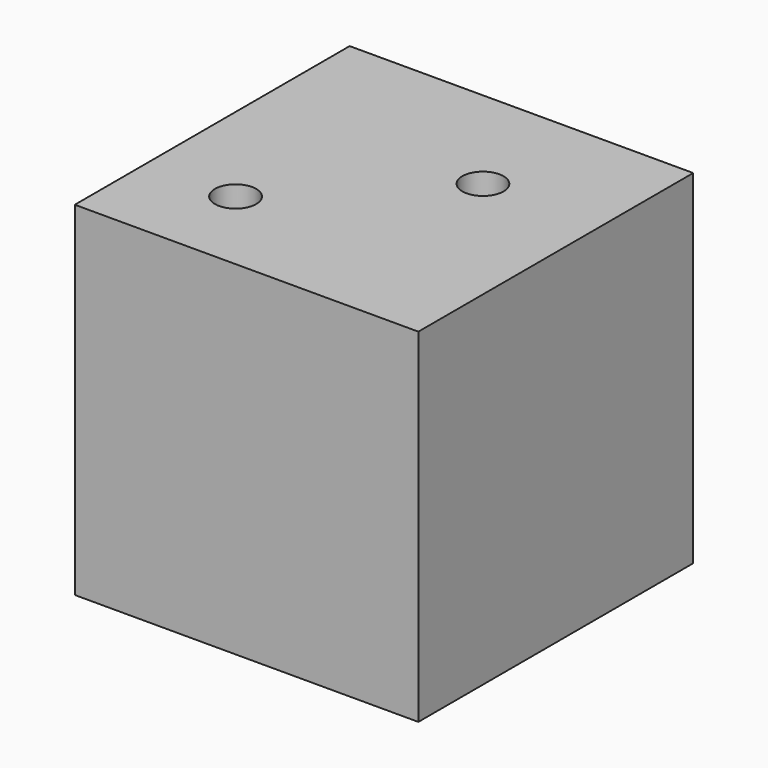
from build123d import *

# Parameters (mm, degrees)
F0_W     = 25
F0_H     = 25
F1_DEPTH = 25
F3_D     = 3
F5_D     = 3


with BuildPart() as f1:
    # F0 (on Top) → F1 (new body)
    with BuildSketch(Plane.XY):
        Rectangle(F0_W, F0_H)
    extrude(amount=F1_DEPTH)

    # F3 (through all)
    with Locations(Plane.XY.offset(25)):
        with Locations((-6, -6)):
            Hole(F3_D / 2)

    # F5 (through all)
    with Locations(Plane.XY.offset(25)):
        with Locations((4, 4)):
            Hole(F5_D / 2)


solid = f1.part
